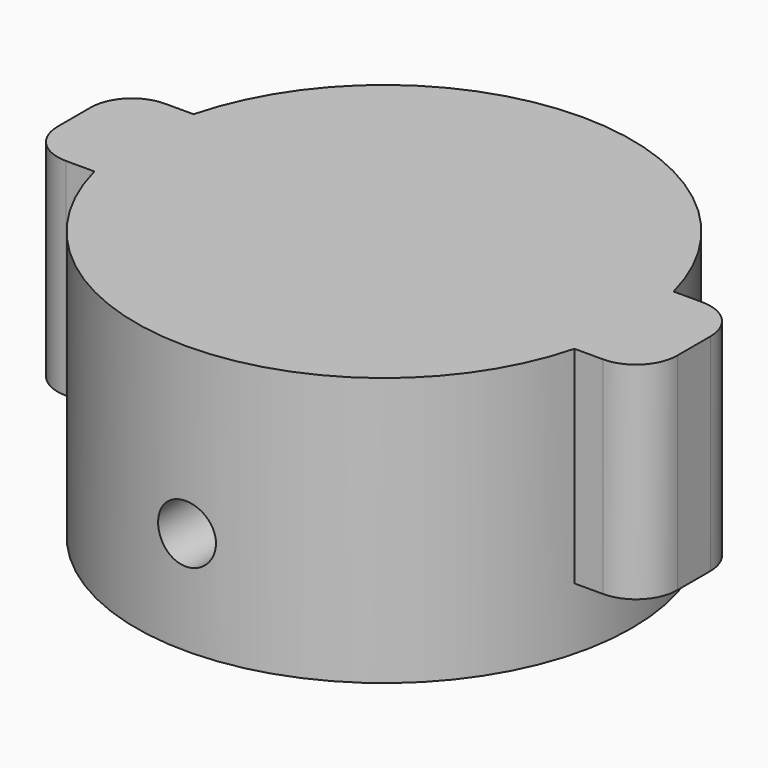
from build123d import *

# Parameters (mm, degrees)
BOX003_W          = 5
BOX003_H          = 6
BOX003_DEPTH      = 10
FILLET_R          = 2
BOX002_W          = 5
BOX002_H          = 6
BOX002_DEPTH      = 10
FILLET001_R       = 2
CYLINDER005_R     = 1.4
CYLINDER005_DEPTH = 11
CYLINDER004_R     = 9
CYLINDER004_DEPTH = 1
CYLINDER003_R     = 1.4
CYLINDER003_DEPTH = 11
BOX001_W          = 6
BOX001_H          = 2
BOX001_DEPTH      = 12
CYLINDER002_R     = 3
CYLINDER002_DEPTH = 12
BOX_W             = 10
BOX_H             = 20
BOX_DEPTH         = 12
CYLINDER001_R     = 9
CYLINDER001_DEPTH = 11
CYLINDER_R        = 12
CYLINDER_DEPTH    = 13


with BuildPart() as fillet_body:
    # Box003 → Box003 (new body)
    with BuildSketch(Plane(origin=(-15, -3, 3), x_dir=(1, 0, 0), z_dir=(0, 0, 1))):
        with Locations((2.5, 3)):
            Rectangle(BOX003_W, BOX003_H)
    extrude(amount=BOX003_DEPTH)

    # Fillet
    fillet_edges = [fillet_body.edges().sort_by_distance(p)[0] for p in [
        (-15, -3, 8),
        (-15, 3, 8),
    ]]
    fillet(fillet_edges, radius=FILLET_R)


with BuildPart() as fillet001:
    # Box002 → Box002 (new body)
    with BuildSketch(Plane(origin=(10, -3, 3), x_dir=(1, 0, 0), z_dir=(0, 0, 1))):
        with Locations((2.5, 3)):
            Rectangle(BOX002_W, BOX002_H)
    extrude(amount=BOX002_DEPTH)

    # Fillet001
    fillet001_edges = [fillet001.edges().sort_by_distance(p)[0] for p in [
        (15, -3, 8),
        (15, 3, 8),
    ]]
    fillet(fillet001_edges, radius=FILLET001_R)


with BuildPart() as cylinder005:
    # Cylinder005 → Cylinder005 (new body)
    with BuildSketch(Plane(origin=(0, -2, 5), x_dir=(1, 0, 0), z_dir=(0, -1, 0))):
        Circle(CYLINDER005_R)
    extrude(amount=CYLINDER005_DEPTH)


with BuildPart() as cylinder004:
    # Cylinder004 → Cylinder004 (new body)
    with BuildSketch(Plane.XY):
        Circle(CYLINDER004_R)
    extrude(amount=CYLINDER004_DEPTH)


with BuildPart() as cylinder003:
    # Cylinder003 → Cylinder003 (new body)
    with BuildSketch(Plane(origin=(0, -2, 5), x_dir=(1, 0, 0), z_dir=(0, -1, 0))):
        Circle(CYLINDER003_R)
    extrude(amount=CYLINDER003_DEPTH)


with BuildPart() as cube001:
    # Box001 → Box001 (new body)
    with BuildSketch(Plane(origin=(-3, -6, 0), x_dir=(1, 0, 0), z_dir=(0, 0, 1))):
        with Locations((3, 1)):
            Rectangle(BOX001_W, BOX001_H)
    extrude(amount=BOX001_DEPTH)


with BuildPart() as cylinder002:
    # Cylinder002 → Cylinder002 (new body)
    with BuildSketch(Plane.XY):
        Circle(CYLINDER002_R)
    extrude(amount=CYLINDER002_DEPTH)


with BuildPart() as cut003:
    # Box → Box (new body)
    with BuildSketch(Plane(origin=(-5, -10, 0), x_dir=(1, 0, 0), z_dir=(0, 0, 1))):
        with Locations((5, 10)):
            Rectangle(BOX_W, BOX_H)
    extrude(amount=BOX_DEPTH)

    # Cut001: cut Cylinder002
    add(cylinder002.part, mode=Mode.SUBTRACT)

    # Cut002: cut Cube001
    add(cube001.part, mode=Mode.SUBTRACT)

    # Cut003: cut Cylinder003
    add(cylinder003.part, mode=Mode.SUBTRACT)


with BuildPart() as cylinder001:
    # Cylinder001 → Cylinder001 (new body)
    with BuildSketch(Plane.XY):
        Circle(CYLINDER001_R)
    extrude(amount=CYLINDER001_DEPTH)


with BuildPart() as fusion001:
    # Cylinder → Cylinder (new body)
    with BuildSketch(Plane.XY):
        Circle(CYLINDER_R)
    extrude(amount=CYLINDER_DEPTH)

    # Cut: cut Cylinder001
    add(cylinder001.part, mode=Mode.SUBTRACT)

    # Fusion: union Cut003
    add(cut003.part)

    # Cut004: cut Cylinder004
    add(cylinder004.part, mode=Mode.SUBTRACT)

    # Cut005: cut Cylinder005
    add(cylinder005.part, mode=Mode.SUBTRACT)

    # Fusion001: union Fillet body, Fillet001
    add(fillet_body.part)
    add(fillet001.part)


solid = fusion001.part
